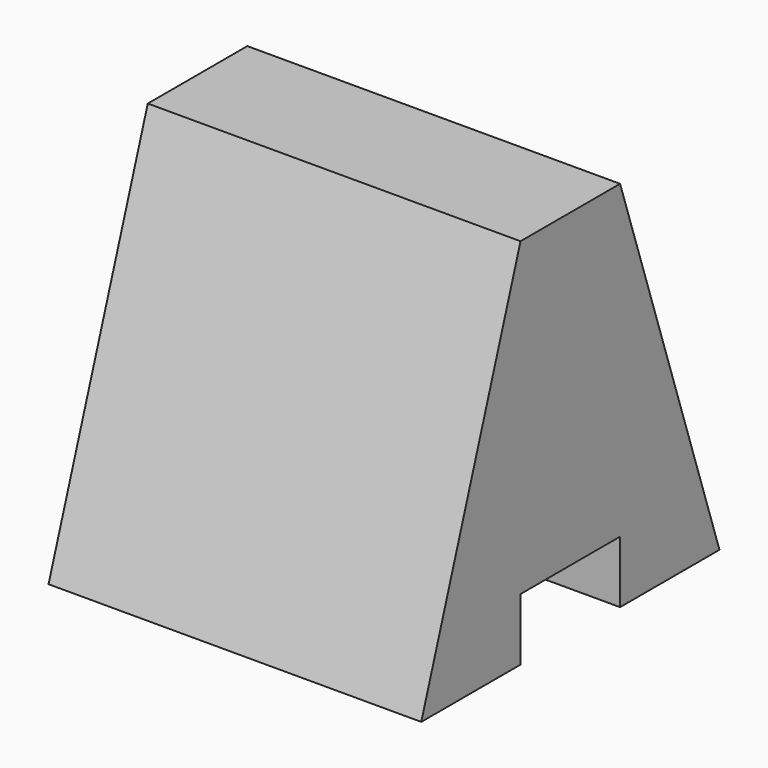
from build123d import *

# Parameters (mm, degrees)
F0_W     = 38.1
F0_H     = 38.1
F1_DEPTH = 38.1
F3_DEPTH = 38.1
F2_W     = 12.7
F2_H     = 6.35
F4_DEPTH = 38.1


with BuildPart() as f1:
    # F0 (on Top) → F1 (new body)
    with BuildSketch(Plane.XY):
        with Locations((19.05, 19.05)):
            Rectangle(F0_W, F0_H)
    extrude(amount=F1_DEPTH)

    # F2 (on face) → F3 (cut)
    with BuildSketch(Plane.YZ.offset(38.1)):
        Polygon((0, 38.1), (0, 0), (12.681324, 38.1), align=None)
    extrude(amount=-F3_DEPTH, mode=Mode.SUBTRACT)

    # F2 (on face) → F4 (cut)
    with BuildSketch(Plane.YZ.offset(38.1)):
        Polygon((25.4, 38.1), (38.1, 0), (38.1, 38.1), align=None)
        with Locations((19.05, 3.175)):
            Rectangle(F2_W, F2_H)
        Polygon((0, 38.1), (0, 0), (12.681324, 38.1), align=None)
    extrude(amount=-F4_DEPTH, mode=Mode.SUBTRACT)


solid = f1.part
